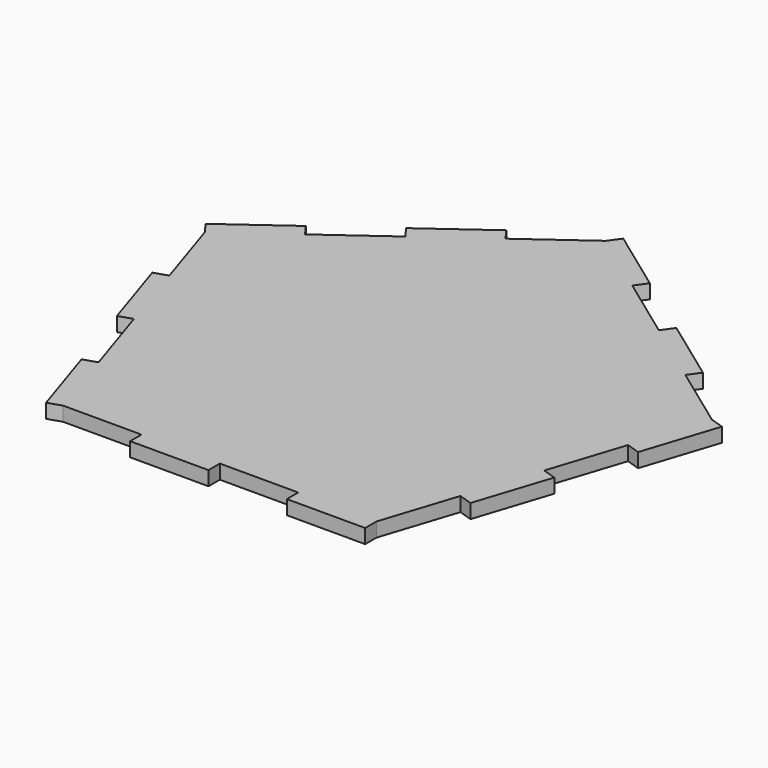
from build123d import *

# Parameters (mm, degrees)
F2_DEPTH = 3
F4_DEPTH = 3


with BuildPart() as f2:
    # F0 (on Top) → F2 (new body)
    with BuildSketch(Plane.XY):
        Polygon((53.4142809913, 17.3553519542), (0, 56.1630986972), (-53.4142809913, 17.3553519542), (-33.0118411373, -45.4369013028), (33.0118411373, -45.4369013028), align=None)
    extrude(amount=F2_DEPTH)

    # F3 (on face) → F4 (join)
    with BuildSketch(Plane.XY.offset(3)):
        Polygon((15.1169260047, 48.8882129946), (1.7633557569, 58.5901496803), (0, 56.1630986972), (-13.3535702478, 46.4611620115), (-15.1169260047, 48.8882129946), (-28.4704962525, 39.1862763088), (-26.7071404957, 36.7592253257), (-40.0607107435, 27.0572886399), (-41.8240665004, 29.4843396231), (-55.1776367482, 19.7824029373), (-53.4142809913, 17.3553519542), (-48.3136710278, 1.6572886399), (-51.1668405767, 0.7302376568), (-46.0662306132, -14.9678256574), (-43.2130610643, -14.0407746743), (-38.1124511008, -29.7388379885), (-40.9656206497, -30.6658889717), (-35.8650106861, -46.3639522859), (-33.0118411373, -45.4369013028), (-16.5059205686, -45.4369013028), (-16.5059205686, -48.4369013028), (0, -48.4369013028), (0, -45.4369013028), (16.5059205686, -45.4369013028), (16.5059205686, -48.4369013028), (33.0118411373, -48.4369013028), (33.0118411373, -45.4369013028), (38.1124511008, -29.7388379885), (40.9656206497, -30.6658889717), (46.0662306132, -14.9678256574), (43.2130610643, -14.0407746743), (48.3136710278, 1.6572886399), (51.1668405767, 0.7302376568), (56.2674505402, 16.4283009711), (53.4142809913, 17.3553519542), (40.0607107435, 27.0572886399), (41.8240665004, 29.4843396231), (28.4704962525, 39.1862763088), (26.7071404957, 36.7592253257), (13.3535702478, 46.4611620115), align=None)
    extrude(amount=-F4_DEPTH)


solid = f2.part
